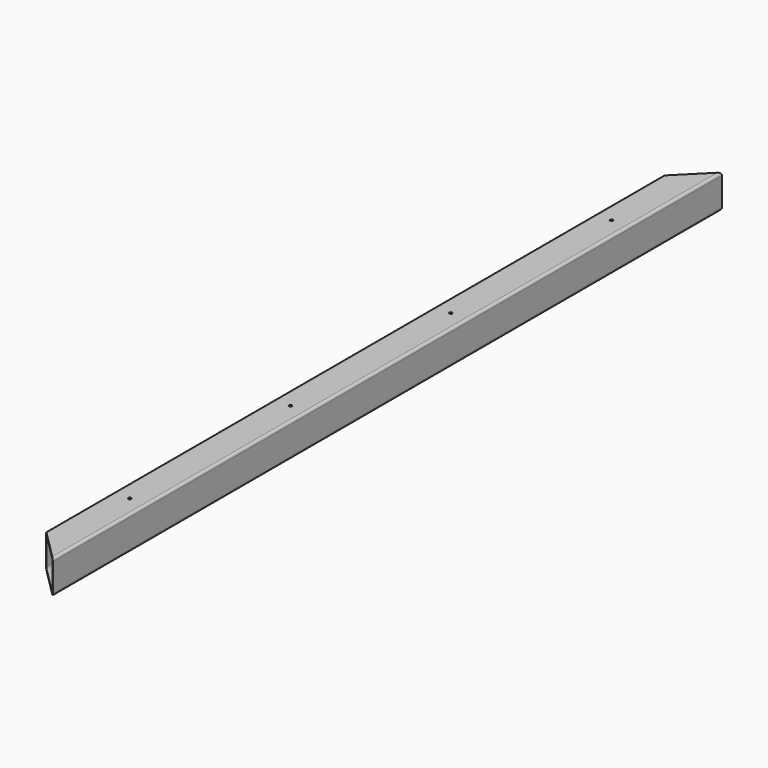
from build123d import *

# Parameters (mm, degrees)
F2_W           = 40
F2_H           = 40
F3_DEPTH       = 500
F4_R           = 3
F5_T           = -2
F7_DEPTH       = 40.001
F9_D           = 3.5
F9_CSINK_D     = 6
F9_CSINK_ANGLE = 90


with BuildPart() as f3:
    # F2 (on Front) → F3 (new body, symmetric)
    with BuildSketch(Plane.XZ):
        Rectangle(F2_W, F2_H)
    extrude(amount=F3_DEPTH, both=True)

    # F4
    f4_edges = [f3.edges().sort_by_distance(p)[0] for p in [
        (20, 0, 20),
        (-20, 0, 20),
        (20, 0, -20),
        (-20, 0, -20),
    ]]
    fillet(f4_edges, radius=F4_R)

    # F5
    f5_openings = [f3.faces().sort_by_distance(p)[0] for p in [
        (0, -500, 0),
        (0, 500, 0),
    ]]
    offset(amount=F5_T, openings=f5_openings)

    # F6 (on face) → F7 (cut, through all)
    with BuildSketch(Plane.XY.offset(20)):
        Polygon((20, 500), (-20, 500), (-20, 460), align=None)
        Polygon((20, -500), (-20, -460), (-20, -500), align=None)
    extrude(amount=-F7_DEPTH, mode=Mode.SUBTRACT)

    # F9 (through all)
    with Locations(Plane(origin=(0, 0, -20), x_dir=(1, 0, 0), z_dir=(0, 0, -1))):
        with Locations((0, 360), (0, 120), (0, -120), (0, -360)):
            CounterSinkHole(F9_D / 2, F9_CSINK_D / 2, counter_sink_angle=F9_CSINK_ANGLE)


solid = f3.part
